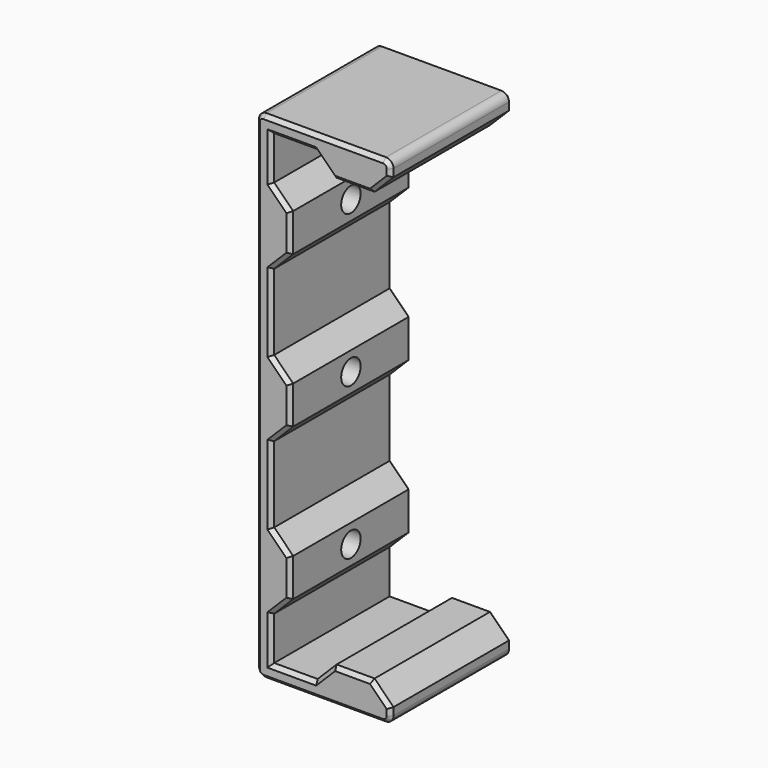
from build123d import *

# Parameters (mm, degrees)
F1_DEPTH = 20
F2_R     = 1
F4_D     = 3.2
F5_SIZE  = 0.5


with BuildPart() as f1:
    # F0 (on Front) → F1 (new body)
    with BuildSketch(Plane.XZ):
        Polygon((-10.72, 30.72), (-5, 30.72), (-2.5, 28.22), (2.5, 28.22), (5, 30.72), (5, 32.72), (-12.72, 32.72), (-12.72, -32.72), (5, -32.72), (5, -30.72), (2.5, -28.22), (-2.5, -28.22), (-5, -30.72), (-10.72, -30.72), (-10.72, -25), (-8.22, -22.5), (-8.22, -17.5), (-10.72, -15), (-10.72, -5), (-8.22, -2.5), (-8.22, 2.5), (-10.72, 5), (-10.72, 15), (-8.22, 17.5), (-8.22, 22.5), (-10.72, 25), align=None)
    extrude(amount=F1_DEPTH)

    # F2
    f2_edges = [f1.edges().sort_by_distance(p)[0] for p in [
        (5, -10, 32.72),
        (-12.72, -10, 32.72),
        (-12.72, -10, -32.72),
        (5, -10, -32.72),
    ]]
    fillet(f2_edges, radius=F2_R)

    # F4 (through all)
    with Locations(Plane(origin=(-12.72, 0, 0), x_dir=(0, -1, 0), z_dir=(-1, 0, 0))):
        with Locations((10, 20), (10, 0), (10, -20)):
            Hole(F4_D / 2)

    # F5
    f5_edges = [f1.edges().sort_by_distance(p)[0] for p in [
        (5, -20, 31.22),
        (4.707107, -20, 32.427107),
        (3.75, -20, 29.47),
        (-3.86, -20, 32.72),
        (0, -20, 28.22),
        (-12.427107, -20, 32.427107),
        (-3.75, -20, 29.47),
        (-12.72, -20, 0),
        (-7.86, -20, 30.72),
        (-12.427107, -20, -32.427107),
        (-10.72, -20, 27.86),
        (-3.86, -20, -32.72),
        (-9.47, -20, 23.75),
        (4.707107, -20, -32.427107),
        (-8.22, -20, 20),
        (5, -20, -31.22),
        (-9.47, -20, 16.25),
        (3.75, -20, -29.47),
        (-10.72, -20, 10),
        (0, -20, -28.22),
        (-9.47, -20, 3.75),
        (-3.75, -20, -29.47),
        (-8.22, -20, 0),
        (-7.86, -20, -30.72),
        (-9.47, -20, -3.75),
        (-10.72, -20, -27.86),
        (-10.72, -20, -10),
        (-9.47, -20, -23.75),
        (-9.47, -20, -16.25),
        (-8.22, -20, -20),
        (5, 0, 31.22),
        (4.707107, 0, 32.427107),
        (3.75, 0, 29.47),
        (-3.86, 0, 32.72),
        (0, 0, 28.22),
        (-12.427107, 0, 32.427107),
        (-3.75, 0, 29.47),
        (-12.72, 0, 0),
        (-7.86, 0, 30.72),
        (-12.427107, 0, -32.427107),
        (-10.72, 0, 27.86),
        (-3.86, 0, -32.72),
        (-9.47, 0, 23.75),
        (4.707107, 0, -32.427107),
        (-8.22, 0, 20),
        (5, 0, -31.22),
        (-9.47, 0, 16.25),
        (3.75, 0, -29.47),
        (-10.72, 0, 10),
        (0, 0, -28.22),
        (-9.47, 0, 3.75),
        (-3.75, 0, -29.47),
        (-8.22, 0, 0),
        (-7.86, 0, -30.72),
        (-9.47, 0, -3.75),
        (-10.72, 0, -27.86),
        (-10.72, 0, -10),
        (-9.47, 0, -23.75),
        (-9.47, 0, -16.25),
        (-8.22, 0, -20),
    ]]
    chamfer(f5_edges, length=F5_SIZE)


solid = f1.part
